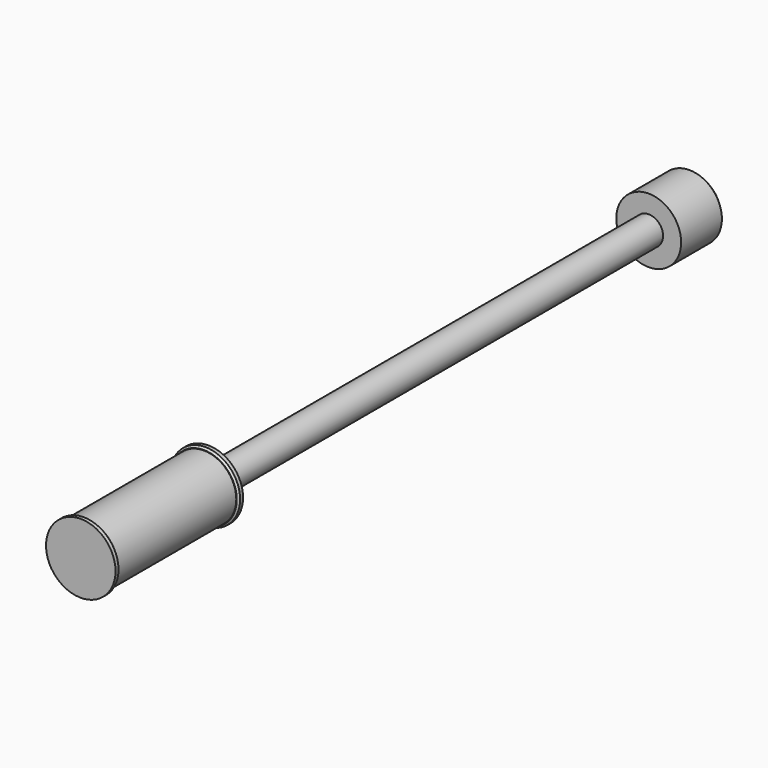
from build123d import *

# Parameters (mm, degrees)
SKETCH016_R     = 7.75
PAD006_DEPTH    = 300
SKETCH017_R     = 17.5
PAD007_DEPTH    = 30
CHAMFER006_SIZE = 2.5
SKETCH018_R     = 17.5
PAD008_DEPTH    = 80
SKETCH019_R     = 18.75
PAD009_DEPTH    = 3
SKETCH020_R     = 18.75
PAD010_DEPTH    = 3
CHAMFER007_SIZE = 1


with BuildPart() as part:
    # Sketch016 → Pad006 (new body)
    with BuildSketch(Plane.XZ):
        with Locations((0, 60.015743)):
            Circle(SKETCH016_R)
    extrude(amount=PAD006_DEPTH)

    # Sketch017 (on Face2 of Pad006) → Pad007 (join)
    with BuildSketch(Plane(origin=(0, 0, 0), x_dir=(1, 0, 0), z_dir=(0, 1, 0))):
        with Locations((0, -60.094143)):
            Circle(SKETCH017_R)
    extrude(amount=PAD007_DEPTH)

    # Chamfer006
    chamfer006_edges = [part.edges().sort_by_distance(p)[0] for p in [
        (-17.5, 30, 60.094143),
    ]]
    chamfer(chamfer006_edges, length=CHAMFER006_SIZE)

    # Sketch018 (on Face6 of Chamfer006) → Pad008 (join)
    with BuildSketch(Plane.XZ.offset(300)):
        with Locations((0, 60.040283)):
            Circle(SKETCH018_R)
    extrude(amount=PAD008_DEPTH)

    # Sketch019 (on Face8 of Pad008) → Pad009 (join)
    with BuildSketch(Plane.XZ.offset(380)):
        with Locations((0, 60.03339)):
            Circle(SKETCH019_R)
    extrude(amount=PAD009_DEPTH)

    # Sketch020 (on Face6 of Pad009) → Pad010 (join)
    with BuildSketch(Plane(origin=(0, -300, 0), x_dir=(1, 0, 0), z_dir=(0, 1, 0))):
        with Locations((0, -60.018958)):
            Circle(SKETCH020_R)
    extrude(amount=PAD010_DEPTH)

    # Chamfer007
    chamfer007_edges = [part.edges().sort_by_distance(p)[0] for p in [
        (-18.75, -300, 60.018958),
        (-18.75, -380, 60.03339),
    ]]
    chamfer(chamfer007_edges, length=CHAMFER007_SIZE)


solid = part.part
